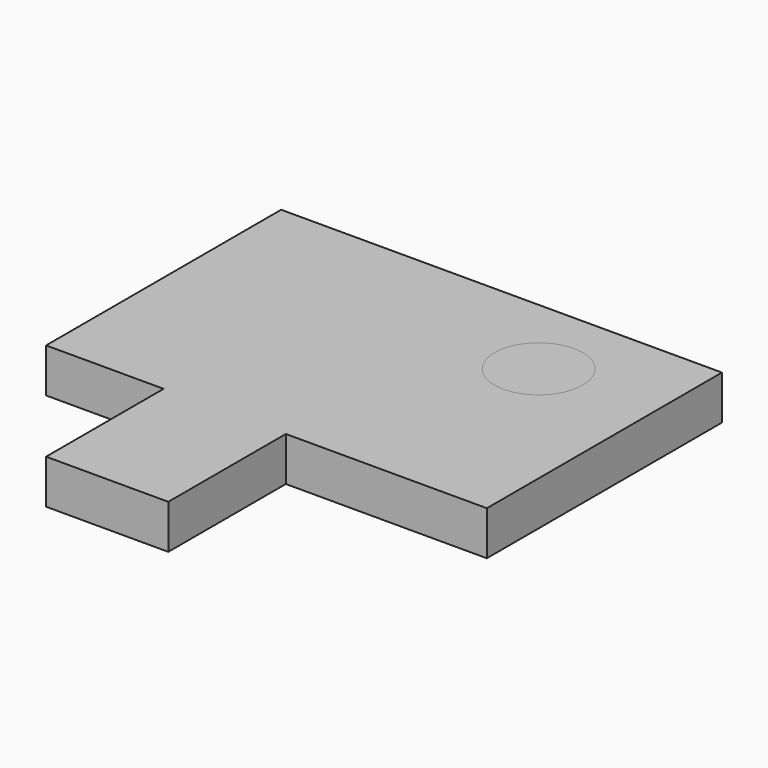
from build123d import *

# Parameters (mm, degrees)
RECTANGLE_W      = 8.317706
RECTANGLE_H      = 12.669173
EXTRUDE_DEPTH    = 3
RECTANGLE001_W   = 30
RECTANGLE001_H   = 20
EXTRUDE001_DEPTH = 3
RECTANGLE002_W   = 30
RECTANGLE002_H   = 20
EXTRUDE002_DEPTH = 3
RECTANGLE003_W   = 8.317706
RECTANGLE003_H   = 12.669173
EXTRUDE003_DEPTH = 3
SKETCH_R         = 3
HOLE_DEPTH       = 25


with BuildPart() as extrude_body:
    # Rectangle → Extrude (new body)
    with BuildSketch(Plane(origin=(-2, -10, 0), x_dir=(1, 0, 0), z_dir=(0, 0, 1))):
        with Locations((4.158853, 6.334586)):
            Rectangle(RECTANGLE_W, RECTANGLE_H)
    extrude(amount=EXTRUDE_DEPTH)


with BuildPart() as extrude001:
    # Rectangle001 → Extrude001 (new body)
    with BuildSketch(Plane(origin=(-10, 0, 0), x_dir=(1, 0, 0), z_dir=(0, 0, 1))):
        with Locations((15, 10)):
            Rectangle(RECTANGLE001_W, RECTANGLE001_H)
    extrude(amount=EXTRUDE001_DEPTH)


with BuildPart() as extrude002:
    # Rectangle002 → Extrude002 (new body)
    with BuildSketch(Plane(origin=(-10, 0, 0), x_dir=(1, 0, 0), z_dir=(0, 0, 1))):
        with Locations((15, 10)):
            Rectangle(RECTANGLE002_W, RECTANGLE002_H)
    extrude(amount=EXTRUDE002_DEPTH)


with BuildPart() as body:
    # Rectangle003 → Extrude003 (new body)
    with BuildSketch(Plane(origin=(-2, -10, 0), x_dir=(1, 0, 0), z_dir=(0, 0, 1))):
        with Locations((4.158853, 6.334586)):
            Rectangle(RECTANGLE003_W, RECTANGLE003_H)
    extrude(amount=EXTRUDE003_DEPTH)

    # Fusion001: union Extrude002
    add(extrude002.part)

    # Sketch → Hole (cut)
    with BuildSketch(Plane.XY.offset(3)):
        with Locations((12.132212, 14.245337)):
            Circle(SKETCH_R)
    extrude(amount=-HOLE_DEPTH, mode=Mode.SUBTRACT)


solid = Compound([extrude_body.part, extrude001.part, body.part])
